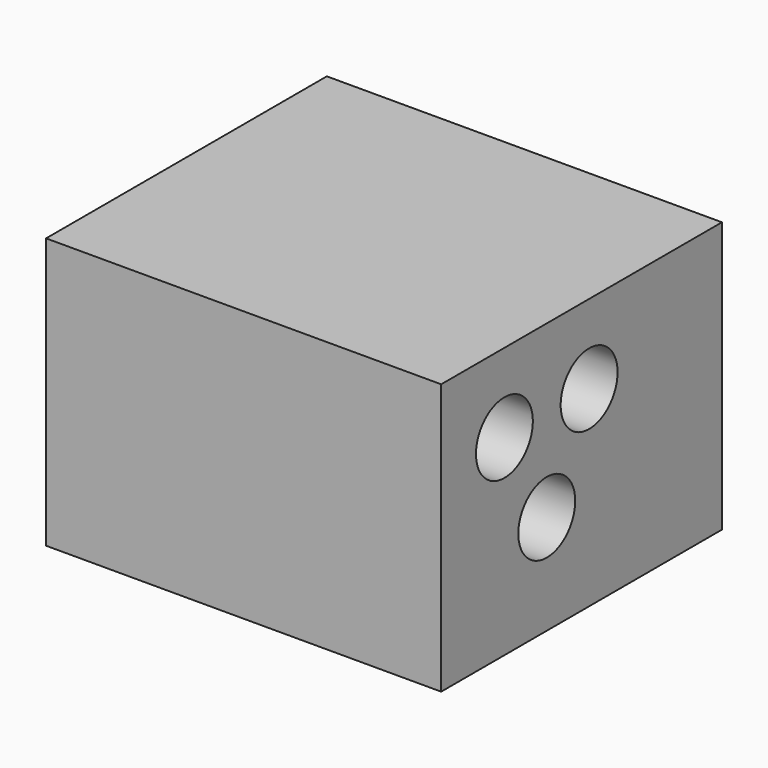
from build123d import *

# Parameters (mm, degrees)
F0_W     = 22.203418
F0_H     = 17.122185
F0_R     = 2.25
F1_DEPTH = 25


with BuildPart() as f1:
    # F0 (on Right) → F1 (new body)
    with BuildSketch(Plane.YZ):
        with Locations((6.101709, -3.561092)):
            Rectangle(F0_W, F0_H)
        with Locations((3.35, -5.80237)):
            Circle(F0_R, mode=Mode.SUBTRACT)
        Circle(F0_R, mode=Mode.SUBTRACT)
        with Locations((6.7, 0)):
            Circle(F0_R, mode=Mode.SUBTRACT)
    extrude(amount=F1_DEPTH)


solid = f1.part
